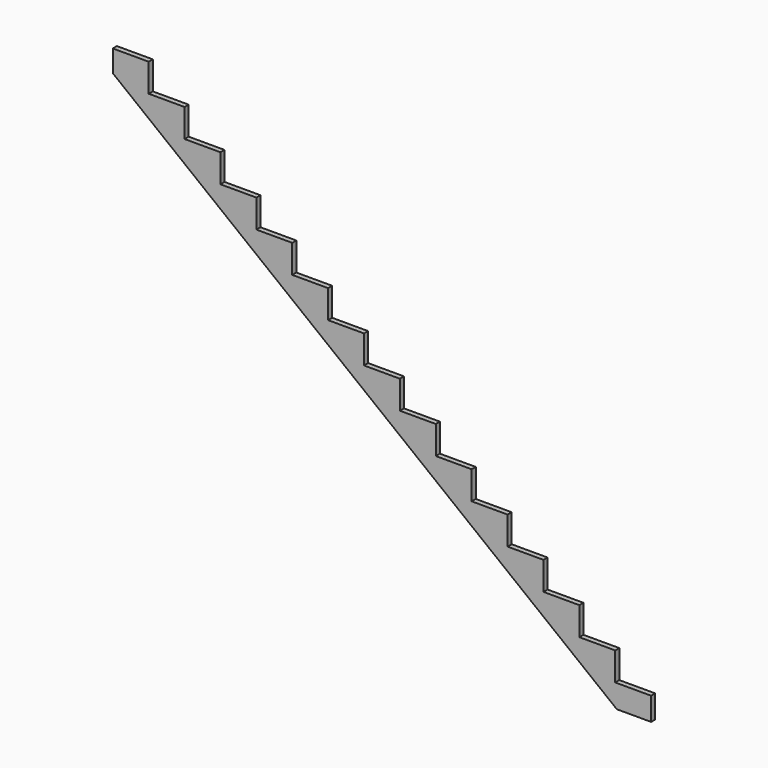
from build123d import *

# Parameters (mm, degrees)
F1_DEPTH = 38.1


with BuildPart() as f1:
    # F0 (on Front) → F1 (new body)
    with BuildSketch(Plane.XZ):
        Polygon((-254.581149, 0), (0, 0), (0, 171.45), (-266.7, 171.45), (-266.7, 381), (-533.4, 381), (-533.4, 590.55), (-800.1, 590.55), (-800.1, 800.1), (-1066.8, 800.1), (-1066.8, 1009.65), (-1333.5, 1009.65), (-1333.5, 1219.2), (-1600.2, 1219.2), (-1600.2, 1428.75), (-1866.9, 1428.75), (-1866.9, 1638.3), (-2133.6, 1638.3), (-2133.6, 1847.85), (-2400.3, 1847.85), (-2400.3, 2057.4), (-2667, 2057.4), (-2667, 2266.95), (-2933.7, 2266.95), (-2933.7, 2476.5), (-3200.4, 2476.5), (-3200.4, 2686.05), (-3467.1, 2686.05), (-3467.1, 2895.6), (-3733.8, 2895.6), (-3733.8, 3105.15), (-4000.5, 3105.15), (-4000.5, 2943.221954), align=None)
    extrude(amount=F1_DEPTH)


solid = f1.part
